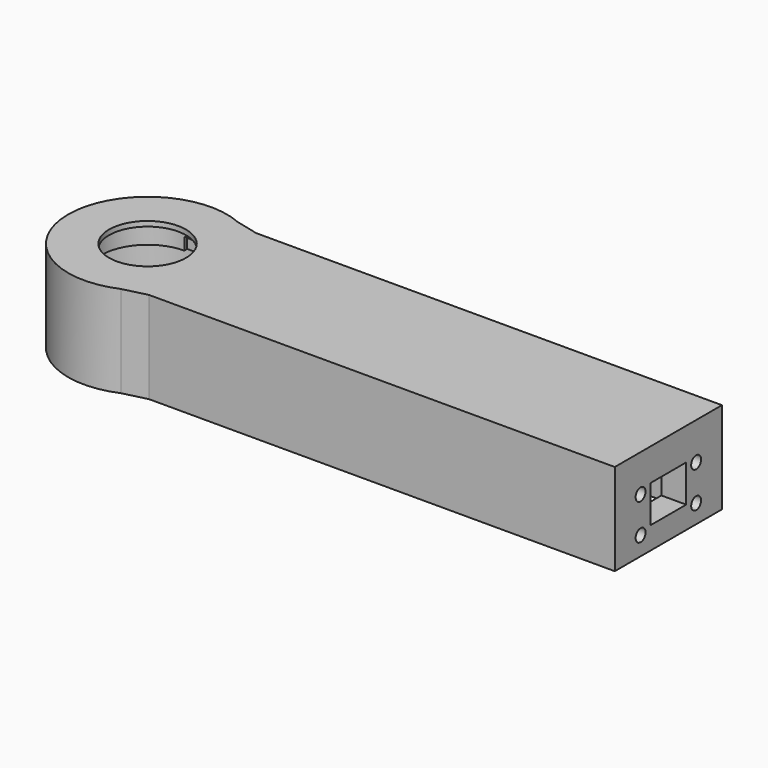
from build123d import *

# Parameters (mm, degrees)
SKETCH025_R           = 32
PAD016_DEPTH          = 37
SKETCH026_R           = 18.5
POCKET001_DEPTH       = 35
SKETCH027_R           = 26.5
POCKET002_DEPTH       = 27
SKETCH028_R           = 15.5
POCKET003_DEPTH       = 37.001
PAD018_DEPTH          = 37
SKETCH034_W           = 40
SKETCH034_H           = 32
POCKET004_DEPTH       = 200
SKETCH046_W           = 54
SKETCH046_H           = 37
SKETCH046_W_2         = 18
SKETCH046_H_2         = 15
PAD020_DEPTH          = 10
SKETCH047_R           = 1.5
POCKET_DEPTH          = 10
POLARPATTERN003_COUNT = 3
CHAMFER002_SIZE       = 5
SKETCH063_R           = 2.5
POCKET022_DEPTH       = 10.001
BODY_PLACEMENT_ANGLE  = 179.999986


with BuildPart() as part:
    # Sketch025 (on Face1 of CopyPocket) → Pad016 (new body)
    with BuildSketch(Plane.XY.offset(19.5)):
        Circle(SKETCH025_R)
    extrude(amount=-PAD016_DEPTH)

    # Sketch026 (on Face3 of Pad016) → Pocket001 (cut)
    with BuildSketch(Plane(origin=(0, 0, -17.5), x_dir=(1, 0, 0), z_dir=(0, 0, -1))):
        Circle(SKETCH026_R)
    extrude(amount=-POCKET001_DEPTH, mode=Mode.SUBTRACT)

    # Sketch027 (on Face3 of Pocket001) → Pocket002 (cut)
    with BuildSketch(Plane(origin=(0, 0, -17.5), x_dir=(1, 0, 0), z_dir=(0, 0, -1))):
        Circle(SKETCH027_R)
    extrude(amount=-POCKET002_DEPTH, mode=Mode.SUBTRACT)

    # Sketch028 (on Face2 of Pocket002) → Pocket003 (cut, through all)
    with BuildSketch(Plane.XY.offset(19.5)):
        Circle(SKETCH028_R)
    extrude(amount=-POCKET003_DEPTH, mode=Mode.SUBTRACT)

    # Sketch030 (on Face2 of Pocket003) → Pad018 (join)
    with BuildSketch(Plane.XY.offset(19.5)):
        with BuildLine():
            ThreePointArc((-17.175564, 27), (-32, 0), (-17.175564, -27))
            Line((-200, -27), (-17.175564, -27))
            Line((-200, 27), (-200, -27))
            Line((-17.175564, 27), (-200, 27))
        make_face()
    extrude(amount=-PAD018_DEPTH)

    # Sketch034 (on Face2 of Pad018) → Pocket004 (cut)
    with BuildSketch(Plane(origin=(-200, 0, 0), x_dir=(0, -1, 0), z_dir=(-1, 0, 0))):
        with Locations((0, -1.5)):
            Rectangle(SKETCH034_W, SKETCH034_H)
    extrude(amount=-POCKET004_DEPTH, mode=Mode.SUBTRACT)

    # Sketch046 (on Face3 of Pocket004) → Pad020 (join)
    with BuildSketch(Plane(origin=(-200, 0, 0), x_dir=(0, -1, 0), z_dir=(-1, 0, 0))):
        with Locations((0, 1)):
            Rectangle(SKETCH046_W, SKETCH046_H)
        with Locations((0, -1)):
            Rectangle(SKETCH046_W_2, SKETCH046_H_2, mode=Mode.SUBTRACT)
    extrude(amount=PAD020_DEPTH)

    # Sketch047 (on Face20 of Pad020) → Pocket (cut)
    with BuildSketch(Plane(origin=(0, 0, -17.5), x_dir=(1, 0, 0), z_dir=(0, 0, -1))):
        with Locations((29.53, 0)):
            Circle(SKETCH047_R)
    pocket = extrude(amount=-POCKET_DEPTH, mode=Mode.SUBTRACT)

    # PolarPattern003: Pocket ×3 about axis
    polarpattern003_axis = Axis((0, 0, -17.5), (0, 0, -1))
    for i in range(1, POLARPATTERN003_COUNT):
        add(pocket.rotate(polarpattern003_axis, i * 360 / POLARPATTERN003_COUNT), mode=Mode.SUBTRACT)

    # Chamfer002
    chamfer002_edges = [part.edges().sort_by_distance(p)[0] for p in [
        (-17.175564, -27, 1),
        (-17.175564, 27, 1),
    ]]
    chamfer(chamfer002_edges, length=CHAMFER002_SIZE)

    # Sketch063 (on Face14 of Chamfer002) → Pocket022 (cut, through all)
    with BuildSketch(Plane.YZ.offset(-200)):
        with Locations((-14, 4.5)):
            Circle(SKETCH063_R)
        with Locations((14, 4.5)):
            Circle(SKETCH063_R)
        with Locations((-14, -10)):
            Circle(SKETCH063_R)
        with Locations((14, -10)):
            Circle(SKETCH063_R)
    extrude(amount=-POCKET022_DEPTH, mode=Mode.SUBTRACT)


with BuildPart() as part_1:
    # Body placement: moved
    add(part.part.moved(Location((5, -1e-06, 2.46221))).rotate(Axis((5, -1e-06, 2.46221), (0, 0, 1)), BODY_PLACEMENT_ANGLE))


solid = part_1.part
